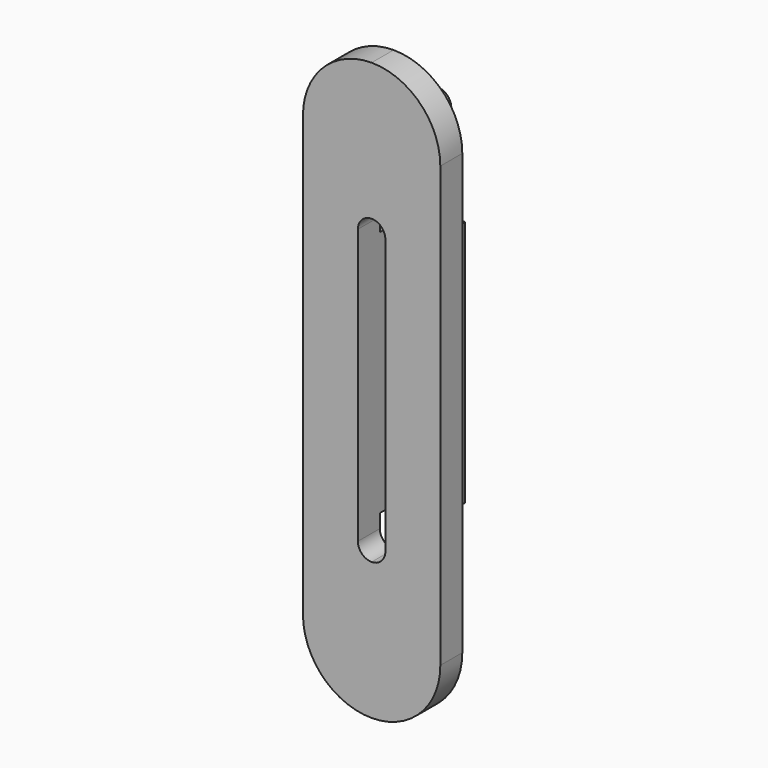
from build123d import *

# Parameters (mm, degrees)
F0_R     = 6.35
F1_DEPTH = 25.4
F3_DEPTH = 12.7
F4_W     = 6.35
F4_H     = 114.3
F5_DEPTH = 25.4


with BuildPart() as f1:
    # F0 (on Front) → F1 (new body)
    with BuildSketch(Plane.XZ):
        with Locations((3.9284797385, 25.3006741405)):
            Circle(F0_R)
    extrude(amount=F1_DEPTH)



with BuildPart() as f1b:
    # F0 (on Front) → F1, piece 2 (new body)
    with BuildSketch(Plane.XZ):
        with Locations((3.9284797385, -177.8993258595)):
            Circle(F0_R)
    extrude(amount=F1_DEPTH)


with BuildPart() as f1_1:
    add(f1.part)

    add(f1b.part)  # F3 merges F1b
    # F2 (on face) → F3 (join)
    with BuildSketch(Plane.XZ.offset(25.4)):
        with BuildLine():
            ThreePointArc((3.9284797385, 57.0506741405), (-18.5221605641, 47.7513144431), (-27.8215202615, 25.3006741405))
            Line((-27.8215202615, 25.3006741405), (-27.8215202615, -177.8993258595))
            ThreePointArc((-27.8215202615, -177.8993258595), (-18.5221605641, -200.3499661622), (3.9284797385, -209.6493258595))
            ThreePointArc((3.9284797385, -209.6493258595), (26.3791200412, -200.3499661622), (35.6784797385, -177.8993258595))
            Line((35.6784797385, -177.8993258595), (35.6784797385, 25.3006741405))
            ThreePointArc((35.6784797385, 25.3006741405), (26.3791200412, 47.7513144431), (3.9284797385, 57.0506741405))
        make_face()
        with BuildLine():
            ThreePointArc((3.9284797385, -6.4493258595), (8.4186077991, -8.309197799), (10.2784797385, -12.7993258595))
            Line((10.2784797385, -12.7993258595), (10.2784797385, -139.7993258595))
            ThreePointArc((10.2784797385, -139.7993258595), (8.4186077991, -144.2894539201), (3.9284797385, -146.1493258595))
            ThreePointArc((3.9284797385, -146.1493258595), (-0.561648322, -144.2894539201), (-2.4215202615, -139.7993258595))
            Line((-2.4215202615, -139.7993258595), (-2.4215202615, -12.7993258595))
            ThreePointArc((-2.4215202615, -12.7993258595), (-0.561648322, -8.309197799), (3.9284797385, -6.4493258595))
        make_face(mode=Mode.SUBTRACT)
    extrude(amount=F3_DEPTH)

    # F4 (on face) → F5 (join)
    with BuildSketch(Plane(origin=(0, -25.4, 0), x_dir=(-1, 0, 0), z_dir=(0, 1, 0))):
        with Locations((5.5965202615, -76.2993258595)):
            Rectangle(F4_W, F4_H)
        with Locations((-13.4534797385, -76.2993258595)):
            Rectangle(F4_W, F4_H)
    extrude(amount=F5_DEPTH)


solid = f1_1.part
